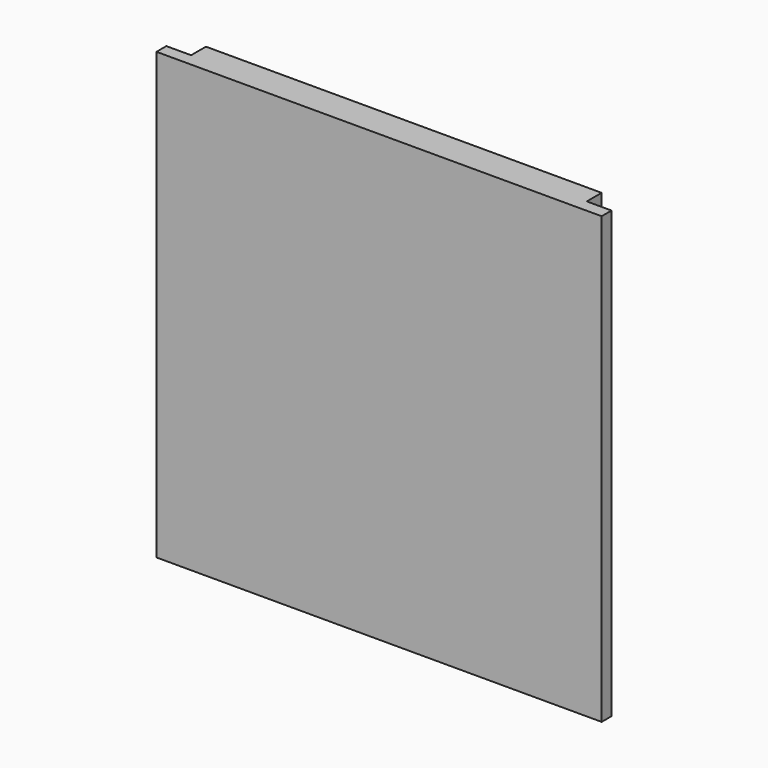
from build123d import *

# Parameters (mm, degrees)
SKETCH024_W               = 32
SKETCH024_H               = 36
EXTRUDE021_DEPTH          = 1.5
SKETCH023_W               = 36
SKETCH023_H               = 36
EXTRUDE020_DEPTH          = 1
FUSION012_PLACEMENT_ANGLE = 270


with BuildPart() as extrude021:
    # Sketch024 (on Face6 of Extrude020) → Extrude021 (new body)
    with BuildSketch(Plane.XY.offset(1)):
        Rectangle(SKETCH024_W, SKETCH024_H)
    extrude(amount=EXTRUDE021_DEPTH)


with BuildPart() as fusion012:
    # Sketch023 → Extrude020 (new body)
    with BuildSketch(Plane.XY):
        Rectangle(SKETCH023_W, SKETCH023_H)
    extrude(amount=EXTRUDE020_DEPTH)

    # Fusion012: union Extrude021
    add(extrude021.part)


with BuildPart() as fusion012_1:
    # Fusion012 placement: moved
    add(fusion012.part.moved(Location((0, 17.5, 20))).rotate(Axis((0, 17.5, 20), (1, 0, 0)), FUSION012_PLACEMENT_ANGLE))


solid = fusion012_1.part
